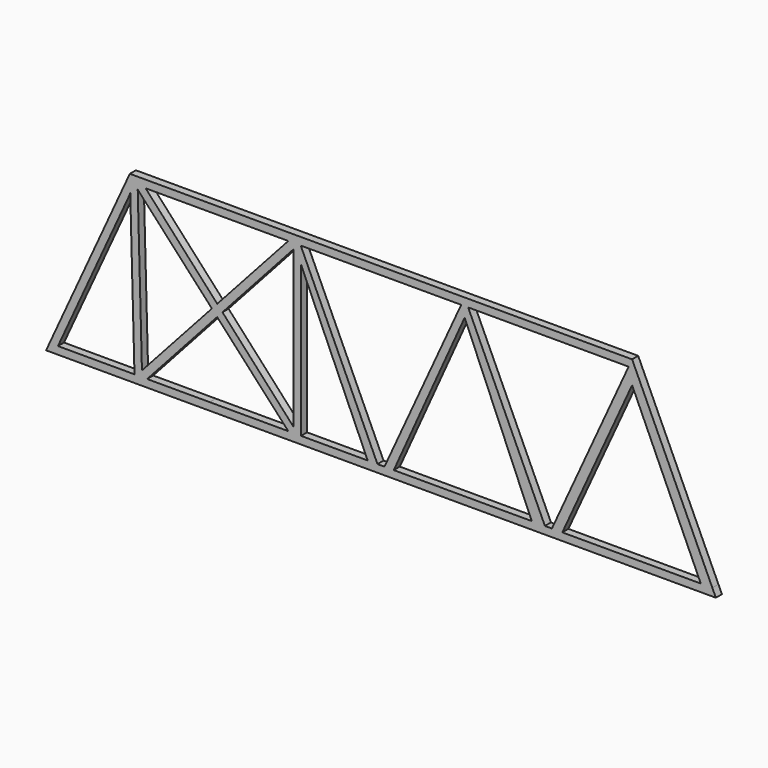
from build123d import *

# Parameters (mm, degrees)
F1_DEPTH = 3.175


with BuildPart() as f1:
    # F0 (on Front) → F1 (new body)
    with BuildSketch(Plane.XZ):
        Polygon((-104.775, 76.2), (-139.7, 0), (104.775, 0), (104.775, 3.175), (75.6517872214, 3.175), (71.3052083333, 3.175), (69.85, 3.175), (68.3947916667, 3.175), (62.8870129585, 3.175), (34.925, 3.175), (5.3408932872, 3.175), (1.4552083333, 3.175), (-1.4552083333, 3.175), (-5.5405562744, 3.175), (-33.3375, 3.175), (-36.5125, 3.175), (-38.6608513408, 3.175), (-71.4375047553, 3.175), (-97.5330998212, 3.174999999), (-99.64636602, 3.1749999989), (-102.8225007036, 3.175), (-134.7521914471, 3.175), (-104.756316928, 68.6205444054), (-104.756316928, 73.025), align=None)
        Polygon((104.775, 3.175), (104.775, 0), (139.7, 0), (138.2447916667, 3.175), (133.4071755409, 3.175), align=None)
        Polygon((-104.6901087262, 73.025), (-104.775, 76.2), (-104.756316928, 73.025), align=None)
        Polygon((-101.5988653164, 76.2), (-104.775, 76.2), (-104.6901087262, 73.025), (-102.8225007036, 3.175), (-99.64636602, 3.1749999989), (-99.7115141172, 5.6115897624), (-101.472367761, 71.4688925436), (-101.5139740426, 73.025), align=None)
        Polygon((69.85, 76.2), (-101.5988653164, 76.2), (-101.5139740426, 73.025), (-98.1860351712, 73.025), (-38.6523553888, 73.025), (-36.5125, 73.025), (-33.4697916667, 73.025), (-33.3375, 73.025), (33.4697916667, 73.025), (34.925, 73.025), (36.3802083333, 73.025), (69.85, 73.025), align=None)
        Polygon((133.4071755409, 3.175), (138.2447916667, 3.175), (104.775, 76.2), (104.775, 73.025), (104.775, 66.7165551532), align=None)
        Polygon((104.775, 76.2), (69.85, 76.2), (69.85, 73.025), (103.3197916667, 73.025), (104.775, 73.025), align=None)
        Polygon((75.6517872214, 3.175), (104.775, 66.7165551532), (104.775, 73.025), (103.3197916667, 73.025), (71.3052083333, 3.175), align=None)
        Polygon((68.3947916667, 3.175), (36.3802083333, 73.025), (34.925, 73.025), (34.925, 68.8173547387), (62.8870129585, 3.175), align=None)
        Polygon((34.925, 68.8173547387), (34.925, 73.025), (33.4697916667, 73.025), (1.4552083333, 3.175), (5.3408932872, 3.175), align=None)
        Polygon((-1.4552083333, 3.175), (-33.3375, 72.7363636364), (-33.3375, 66.0969913006), (-5.5405562744, 3.175), align=None)
        Polygon((-33.4697916667, 73.025), (-36.5125, 73.025), (-36.5125, 70.6575083304), (-36.5125, 5.5052996004), (-36.5125, 3.175), (-33.3375, 3.175), (-33.3375, 66.0969913006), (-33.3375, 72.7363636364), align=None)
        Polygon((-99.7115141172, 5.6115897624), (-99.64636602, 3.1749999989), (-97.5330998212, 3.174999999), (-68.3468089349, 35.4520363387), (-68.2701150092, 35.5368519336), (-68.2322457433, 35.5787314475), (-66.1178646207, 37.9170195361), (-36.5125, 70.6575083304), (-36.5125, 73.025), (-38.6523553888, 73.025), (-68.2936357442, 40.2990366199), (-70.5318972468, 37.8278456628), align=None)
        Polygon((-68.2701150092, 35.5368519336), (-68.3468089349, 35.4520363387), (-38.6608513408, 3.175), (-36.5125, 3.175), (-36.5125, 5.5052996004), (-66.1178646207, 37.9170195361), (-68.2322457433, 35.5787314475), align=None)
        Polygon((-98.1860351712, 73.025), (-101.5139740426, 73.025), (-101.472367761, 71.4688925436), (-70.5318972468, 37.8278456628), (-68.2936357442, 40.2990366199), align=None)
    extrude(amount=F1_DEPTH)


solid = f1.part
